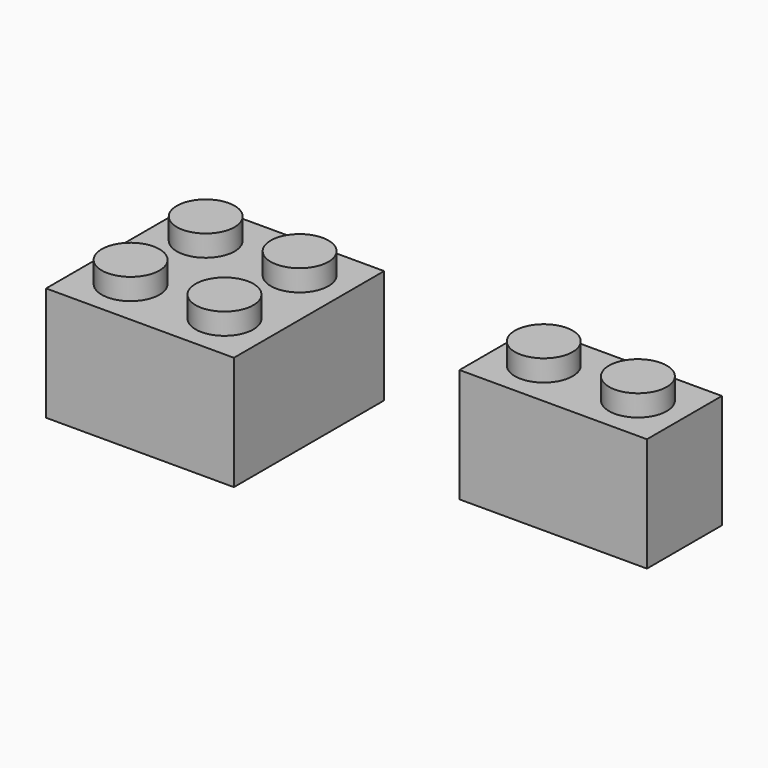
from build123d import *

# Parameters (mm, degrees)
F0_W     = 15.83
F0_H     = 15.83
F0_R     = 2.435
F1_DEPTH = 9.6
F2_DEPTH = 11.4
F4_T     = -1.4
F5_T     = -1.4
F3_R     = 3.15
F3_R_2   = 2.45
F6_DEPTH = 9.5


with BuildPart() as f1:
    # F0 (on Top) → F1 (new body)
    with BuildSketch(Plane.XY):
        Rectangle(F0_W, F0_H)
        with Locations((-3.9575, -3.9575)):
            Circle(F0_R, mode=Mode.SUBTRACT)
        with Locations((3.9575, -3.9575)):
            Circle(F0_R, mode=Mode.SUBTRACT)
        with Locations((-3.9575, 3.9575)):
            Circle(F0_R, mode=Mode.SUBTRACT)
        with Locations((3.9575, 3.9575)):
            Circle(F0_R, mode=Mode.SUBTRACT)
    extrude(amount=F1_DEPTH)

    # F0 (on Top) → F2, piece 2 (join)
    with BuildSketch(Plane.XY):
        with Locations((-3.9575, 3.9575)):
            Circle(F0_R)
        with Locations((3.9575, 3.9575)):
            Circle(F0_R)
        with Locations((3.9575, -3.9575)):
            Circle(F0_R)
        with Locations((-3.9575, -3.9575)):
            Circle(F0_R)
    extrude(amount=F2_DEPTH)

    # F4
    f4_openings = [f1.faces().sort_by_distance(p)[0] for p in [
        (0, 0, 0),
    ]]
    offset(amount=F4_T, openings=f4_openings, kind=Kind.INTERSECTION)

    # F3 (on face) → F6 (join)
    with BuildSketch(Plane(origin=(0, 0, 0), x_dir=(1, 0, 0), z_dir=(0, 0, -1))):
        Circle(F3_R)
        Circle(F3_R_2, mode=Mode.SUBTRACT)
    extrude(amount=-F6_DEPTH)


with BuildPart() as f1b:
    # F0 (on Top) → F1, piece 2 (new body)
    with BuildSketch(Plane.XY):
        Polygon((22.0978542477, 7.9), (20.5978542477, 7.9), (20.5978542477, 6.4), (20.5978542477, 0), (36.3978542477, 0), (36.3978542477, 7.9), (30.0678542477, 7.9), (28.5178542477, 7.9), (26.9678542477, 7.9), align=None)
        with Locations((32.4828792435, 3.9448733544)):
            Circle(F0_R, mode=Mode.SUBTRACT)
        with Locations((24.5328542477, 3.965)):
            Circle(F0_R, mode=Mode.SUBTRACT)
    extrude(amount=F1_DEPTH)

    # F0 (on Top) → F2 (join)
    with BuildSketch(Plane.XY):
        with Locations((24.5328542477, 3.965)):
            Circle(F0_R)
        with Locations((32.4828792435, 3.9448733544)):
            Circle(F0_R)
    extrude(amount=F2_DEPTH)

    # F5
    f5_openings = [f1b.faces().sort_by_distance(p)[0] for p in [
        (28.497854, 3.95, 0),
    ]]
    offset(amount=F5_T, openings=f5_openings, kind=Kind.INTERSECTION)


solid = Compound([f1.part, f1b.part])
